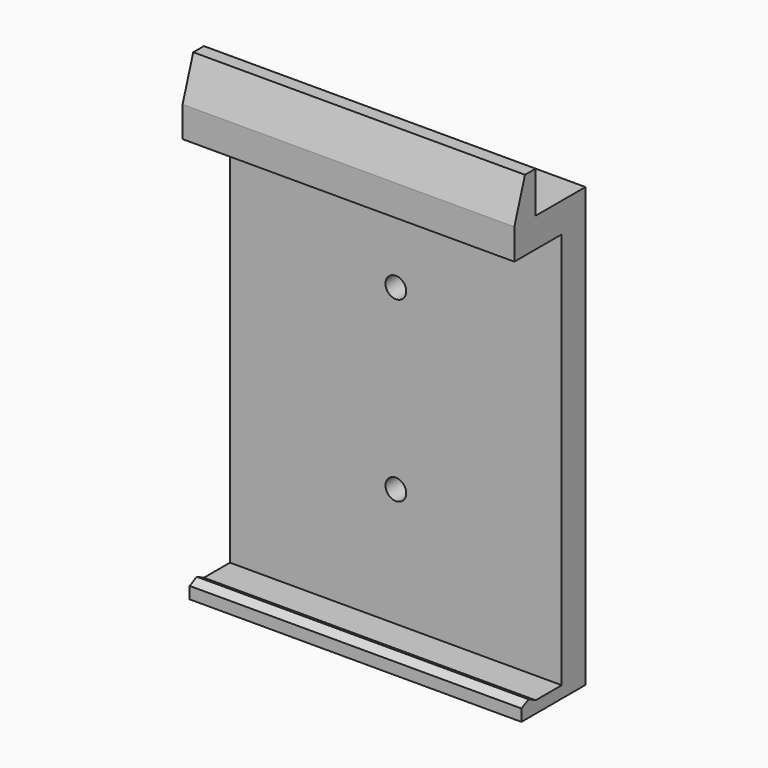
from build123d import *

# Parameters (mm, degrees)
F1_DEPTH = 56
F3_DEPTH = 56
F5_DEPTH = 56
F6_R     = 1.75
F7_DEPTH = 5


with BuildPart() as f1:
    # F0 (on Right) → F1 (new body)
    with BuildSketch(Plane.YZ):
        Polygon((0, 67), (0, 0), (-5.5, 0), (-5.5, 0.75), (-8.5, 0.75), (-8.5, -2), (5, -2), (5, 72), (-5.5, 72), (-5.5, 79), (-10, 79), (-10, 67), align=None)
    extrude(amount=F1_DEPTH)

    # F2 (on face) → F3 (cut)
    with BuildSketch(Plane.YZ.offset(56)):
        Polygon((-10, 72.176479), (-7.75, 79), (-10, 79), align=None)
    extrude(amount=-F3_DEPTH, mode=Mode.SUBTRACT)

    # F4 (on face) → F5 (cut)
    with BuildSketch(Plane.YZ.offset(56)):
        Polygon((-8.5, 0.75), (-8.5, 0), (-7, 0.75), align=None)
        Polygon((-5.5, 0.75), (-7, 0.75), (-5.5, 0), align=None)
    extrude(amount=-F5_DEPTH, mode=Mode.SUBTRACT)

    # F6 (on face) → F7 (cut)
    with BuildSketch(Plane(origin=(0, 5, 0), x_dir=(-1, 0, 0), z_dir=(0, 1, 0))):
        with Locations((-28, 50)):
            Circle(F6_R)
        with Locations((-28, 20)):
            Circle(F6_R)
    extrude(amount=-F7_DEPTH, mode=Mode.SUBTRACT)


with BuildPart() as f8_1:
    # F8: copy of F1
    add(f1.part)


solid = Compound([f1.part, f8_1.part])
